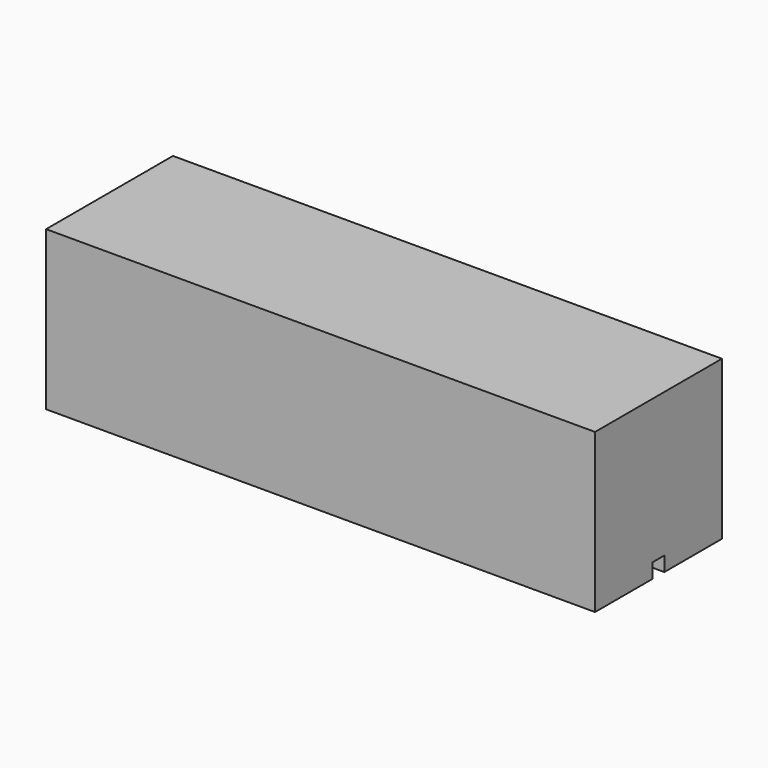
from build123d import *

# Parameters (mm, degrees)
F1_DEPTH = 225
F3_R     = 9.5
F4_DEPTH = 52


with BuildPart() as f1:
    # F0 (on Right) → F1 (new body)
    with BuildSketch(Plane.YZ):
        Polygon((3, 6), (3, 0), (32.5, 0), (32.5, 65), (0, 65), (0, 6), align=None)
    extrude(amount=F1_DEPTH)

    # F2: F1 across plane


with BuildPart() as f1_1:
    add(f1.part)
    add(f1.part.mirror(Plane.XZ))

    # F3 (on Right) → F4 (cut)
    with BuildSketch(Plane.YZ):
        with Locations((0, 29)):
            Circle(F3_R)
    extrude(amount=F4_DEPTH, mode=Mode.SUBTRACT)


solid = f1_1.part
